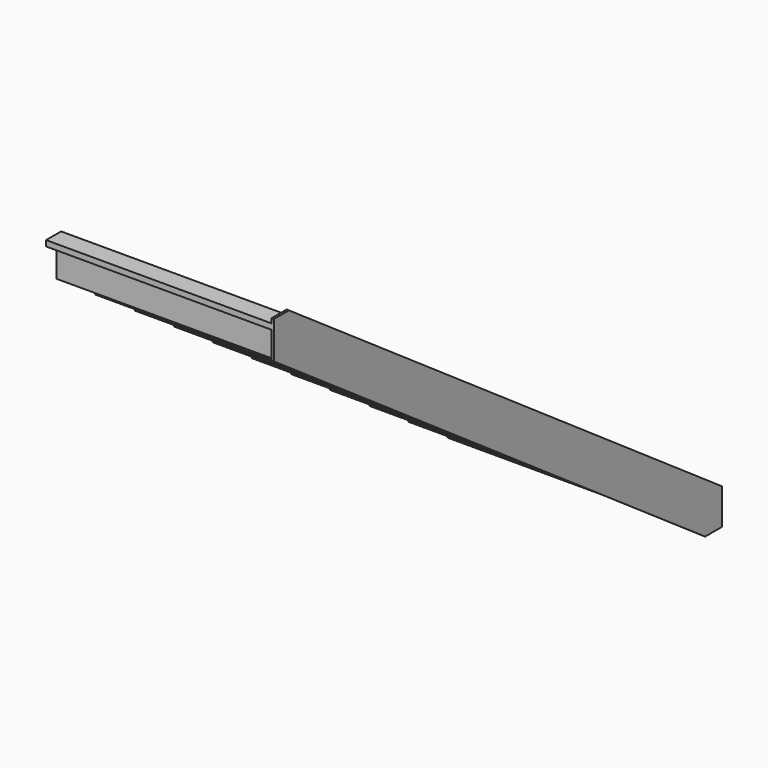
from build123d import *

# Parameters (mm, degrees)
F1_DEPTH = 1200
F3_DEPTH = 12


with BuildPart() as f1:
    # F0 (on Right) → F1 (new body)
    with BuildSketch(Plane.YZ):
        Polygon((-2600, 1980.88), (-2860, 1980.88), (-2860, 2160.96), (-2960, 2160.96), (-2960, 2130.96), (-2890.000105, 2130.96), (-2890.000105, 1950.88), (-2630, 1950.88), (-2630, 1770.8), (-2370, 1770.8), (-2370, 1590.72), (-2110, 1590.72), (-2110, 1410.64), (-1850, 1410.64), (-1850, 1230.56), (-1590, 1230.56), (-1590, 1050.48), (-1330, 1050.48), (-1330, 870.4), (-1070, 870.4), (-1070, 690.32), (-810, 690.32), (-810, 510.24), (-550, 510.24), (-550, 330.16), (-290, 330.16), (-290, 150.08), (-30, 150.08), (-30, 0), (0, 0), (0, 180.08), (-260, 180.08), (-260, 360.16), (-520, 360.16), (-520, 540.24), (-780, 540.24), (-780, 720.32), (-1040, 720.32), (-1040, 900.4), (-1300, 900.4), (-1300, 1080.48), (-1560, 1080.48), (-1560, 1260.56), (-1820, 1260.56), (-1820, 1440.64), (-2080, 1440.64), (-2080, 1620.72), (-2340, 1620.72), (-2340, 1800.8), (-2600, 1800.8), align=None)
    extrude(amount=F1_DEPTH)

    # F2 (on face) → F3 (join)
    with BuildSketch(Plane.YZ.offset(1200)):
        Polygon((-91.258674, 0), (20, 0), (20, 190.556408), (-2860, 2185.288716), (-2960, 2185.288716), (-2960, 1986.934377), align=None)
    extrude(amount=F3_DEPTH)


solid = f1.part
